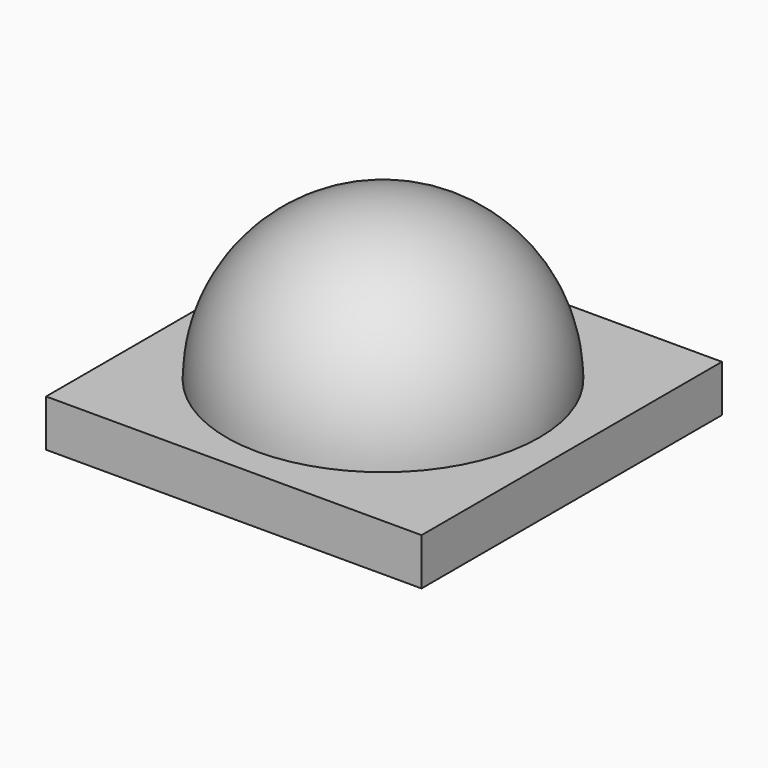
from build123d import *

# Parameters (mm, degrees)
F0_W     = 120
F0_H     = 120
F1_DEPTH = 15
F3_ANGLE = 180


with BuildPart() as f1:
    # F0 (on Top) → F1 (new body)
    with BuildSketch(Plane.XY):
        Rectangle(F0_W, F0_H)
    extrude(amount=F1_DEPTH)

    # F2 (on face) → F3 (revolve)
    with BuildSketch(Plane.XY.offset(15)):
        with BuildLine():
            ThreePointArc((50.001633, -0.404082), (0.001633, 49.595918), (-49.998367, -0.404082))
            Line((-49.998367, -0.404082), (50.001633, -0.404082))
        make_face()
    revolve(axis=Axis((0.001633, -0.404082, 15), (1, 0, 0)), revolution_arc=F3_ANGLE)


solid = f1.part
